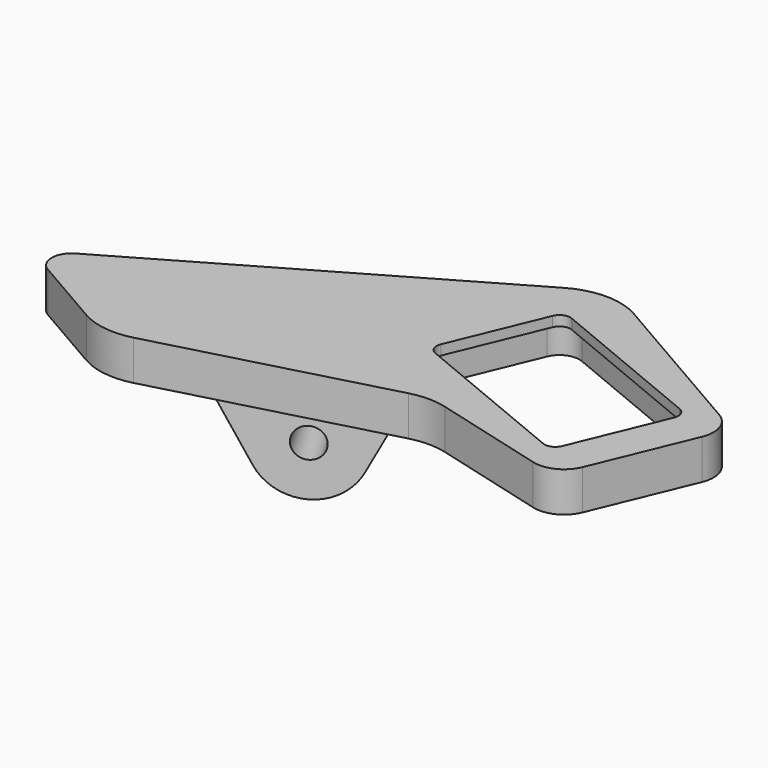
from build123d import *

# Parameters (mm, degrees)
F1_DEPTH = 3
F3_DEPTH = 1
F5_R     = 1.5
F6_DEPTH = 10


with BuildPart() as f1:
    # F0 (on Top) → F1 (new body)
    with BuildSketch(Plane.XY):
        with BuildLine():
            Line((-3.5, 21.073285), (-37, 1.732051))
            ThreePointArc((-37, 1.732051), (-38, 0), (-37, -1.732051))
            Line((-37, -1.732051), (-29.831544, -5.870761))
            ThreePointArc((-29.831544, -5.870761), (-27.245228, -6.748697), (-24.519811, -6.570064))
            Line((-24.519811, -6.570064), (-1.811733, -0.485452))
            ThreePointArc((-1.811733, -0.485452), (0, -0.246933), (1.811733, -0.485452))
            Line((1.811733, -0.485452), (13.088096, -3.506945))
            ThreePointArc((13.088096, -3.506945), (15.191419, -3.299786), (16.636192, -1.757218))
            Line((16.636192, -1.757218), (20.725817, 8.116009))
            ThreePointArc((20.725817, 8.116009), (20.794968, 10.228378), (19.454178, 11.862136))
            Line((19.454178, 11.862136), (3.5, 21.073285))
            ThreePointArc((3.5, 21.073285), (0, 22.011107), (-3.5, 21.073285))
        make_face()
        with BuildLine():
            Line((17.816219, 8.930998), (13.989385, -0.307797))
            ThreePointArc((13.989385, -0.307797), (12.906993, -1.39019), (11.376259, -1.39019))
            Line((11.376259, -1.39019), (-4.791633, 5.30677))
            ThreePointArc((-4.791633, 5.30677), (-5.874025, 6.389163), (-5.874025, 7.919896))
            Line((-5.874025, 7.919896), (-2.047191, 17.158692))
            ThreePointArc((-2.047191, 17.158692), (-0.964799, 18.241084), (0.565935, 18.241084))
            Line((0.565935, 18.241084), (16.733827, 11.544124))
            ThreePointArc((16.733827, 11.544124), (17.816219, 10.461732), (17.816219, 8.930998))
        make_face(mode=Mode.SUBTRACT)
    extrude(amount=F1_DEPTH)

    # F2 (on face) → F3 (join)
    with BuildSketch(Plane.XY.offset(3)):
        with BuildLine():
            Line((1.811733, -0.485452), (13.088096, -3.506945))
            ThreePointArc((13.088096, -3.506945), (15.191419, -3.299786), (16.636192, -1.757218))
            Line((16.636192, -1.757218), (20.725817, 8.116009))
            ThreePointArc((20.725817, 8.116009), (20.794968, 10.228378), (19.454178, 11.862136))
            Line((19.454178, 11.862136), (3.5, 21.073285))
            ThreePointArc((3.5, 21.073285), (0, 22.011107), (-3.5, 21.073285))
            Line((-3.5, 21.073285), (-37, 1.732051))
            ThreePointArc((-37, 1.732051), (-38, 0), (-37, -1.732051))
            Line((-37, -1.732051), (-29.831544, -5.870761))
            ThreePointArc((-29.831544, -5.870761), (-27.245228, -6.748697), (-24.519811, -6.570064))
            Line((-24.519811, -6.570064), (-1.811733, -0.485452))
            ThreePointArc((-1.811733, -0.485452), (0, -0.246933), (1.811733, -0.485452))
        make_face()
        with BuildLine():
            ThreePointArc((-4.447218, 6.138262), (-5.042533, 6.733578), (-5.042533, 7.575481))
            Line((-5.042533, 7.575481), (-1.215699, 16.814277))
            ThreePointArc((-1.215699, 16.814277), (-0.620383, 17.409592), (0.22152, 17.409592))
            Line((0.22152, 17.409592), (16.389412, 10.712632))
            ThreePointArc((16.389412, 10.712632), (16.984728, 10.117316), (16.984728, 9.275413))
            Line((16.984728, 9.275413), (13.157893, 0.036618))
            ThreePointArc((13.157893, 0.036618), (12.562578, -0.558698), (11.720674, -0.558698))
            Line((11.720674, -0.558698), (-4.447218, 6.138262))
        make_face(mode=Mode.SUBTRACT)
    extrude(amount=F3_DEPTH)

    # F5 (on face) → F6 (join)
    with BuildSketch(Plane(origin=(-10, 17.320508, 0), x_dir=(-0.866025, -0.5, 0), z_dir=(-0.5, 0.866025, 0))):
        with BuildLine():
            ThreePointArc((15.611969, -8.308743), (16.033625, -7.188429), (16.176915, -6))
            ThreePointArc((16.176915, -6), (9.988485, -1.14329), (6.74186, -8.308743))
            ThreePointArc((6.74186, -8.308743), (11.176915, -11), (15.611969, -8.308743))
        make_face()
        with Locations((11.176915, -6)):
            Circle(F5_R, mode=Mode.SUBTRACT)
        with BuildLine():
            ThreePointArc((6.74186, -8.308743), (9.988485, -1.14329), (16.176915, -6))
            ThreePointArc((16.176915, -6), (16.033625, -7.188429), (15.611969, -8.308743))
            Line((15.611969, -8.308743), (19.937227, 0))
            Line((19.937227, 0), (2.416602, 0))
            Line((2.416602, 0), (6.74186, -8.308743))
        make_face()
    extrude(amount=-F6_DEPTH)


solid = f1.part
